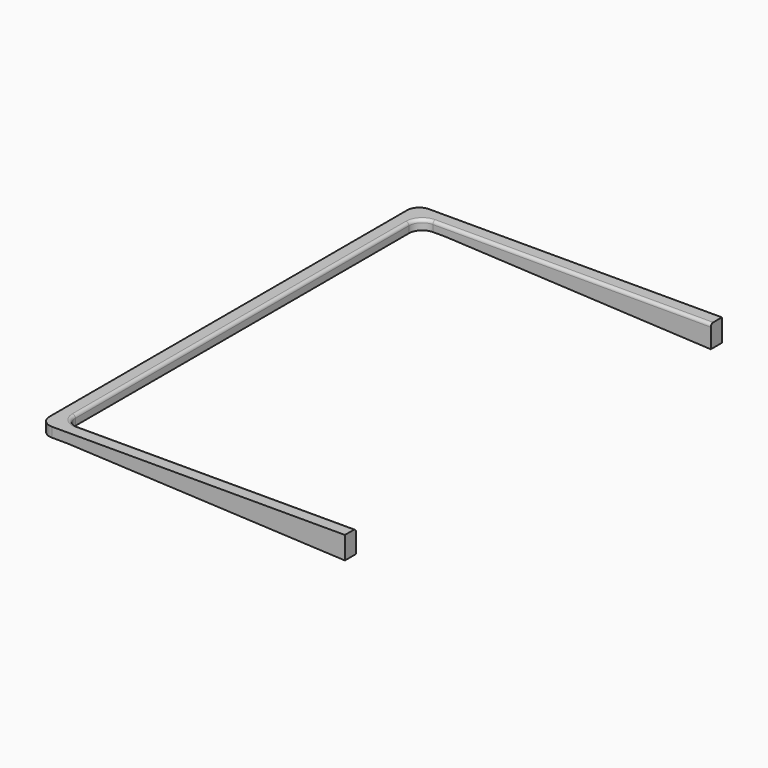
from build123d import *

# Parameters (mm, degrees)
F1_DEPTH = 4.064
F4_DEPTH = 5.842
F6_DEPTH = 5.842
F7_R     = 1.27


with BuildPart() as f1:
    # F0 (on Top) → F1 (new body)
    with BuildSketch(Plane.XY):
        with BuildLine():
            Line((-41.15909, -99.06), (82.03091, -99.06))
            Line((82.03091, -99.06), (82.03091, -93.218))
            Line((82.03091, -93.218), (-34.80909, -93.218))
            ThreePointArc((-34.80909, -93.218), (-38.760403, -91.581313), (-40.39709, -87.63))
            Line((-40.39709, -87.63), (-40.39709, 87.63))
            ThreePointArc((-40.39709, 87.63), (-38.760403, 91.581313), (-34.80909, 93.218))
            Line((-34.80909, 93.218), (82.03091, 93.218))
            Line((82.03091, 93.218), (82.03091, 99.06))
            Line((82.03091, 99.06), (-41.15909, 99.06))
            ThreePointArc((-41.15909, 99.06), (-44.751192, 97.572102), (-46.23909, 93.98))
            Line((-46.23909, 93.98), (-46.23909, -93.98))
            ThreePointArc((-46.23909, -93.98), (-44.751192, -97.572102), (-41.15909, -99.06))
        make_face()
    extrude(amount=-F1_DEPTH)

    # F3 (on face) → F4 (join, through all)
    with BuildSketch(Plane(origin=(0, 99.06, 0), x_dir=(-1, 0, 0), z_dir=(0, 1, 0))):
        Polygon((29.633703, -4.064), (-82.03091, -4.064), (-82.03091, -9.4488), align=None)
    extrude(amount=-F4_DEPTH)

    # F5 (on face) → F6 (join)
    with BuildSketch(Plane(origin=(0, -93.218, 0), x_dir=(-1, 0, 0), z_dir=(0, 1, 0))):
        Polygon((34.80909, 0), (-82.03091, 0), (-82.03091, -9.4488), (34.80909, -4.064), align=None)
    extrude(amount=-F6_DEPTH)

    # F7
    f7_edges = [f1.edges().sort_by_distance(p)[0] for p in [
        (23.61091, 93.218, 0),
    ]]
    fillet(f7_edges, radius=F7_R)


solid = f1.part
